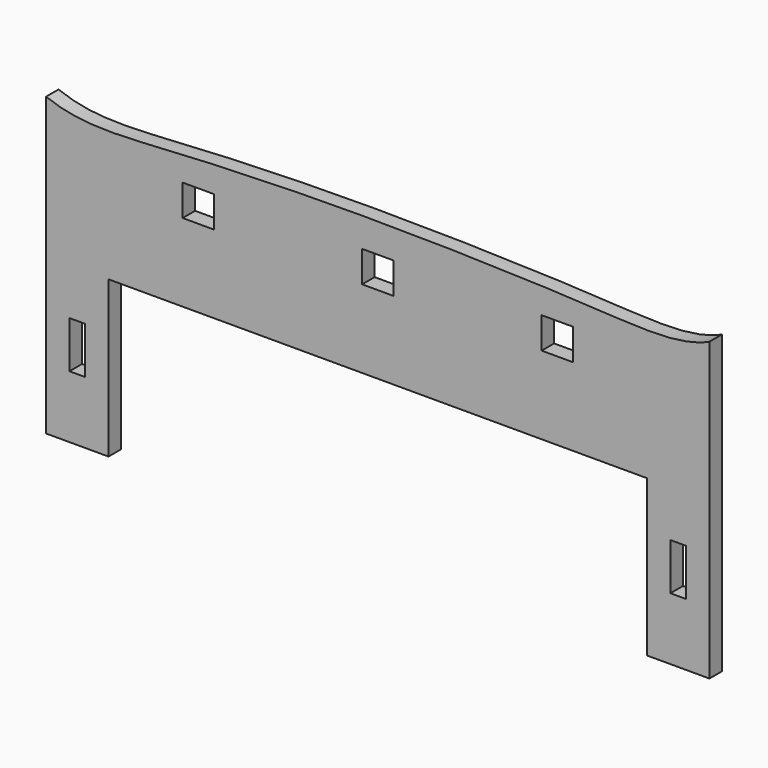
from build123d import *

# Parameters (mm, degrees)
F0_W     = 203.2
F0_H     = 508
F0_W_2   = 50.8
F0_H_2   = 152.4
F0_W_3   = 101.6
F0_H_3   = 101.6
F1_DEPTH = 50.8


with BuildPart() as f1:
    # F0 (on Front) → F1 (new body)
    with BuildSketch(Plane.XZ):
        with Locations((-977.9, -482.6)):
            Rectangle(F0_W, F0_H)
        with Locations((-977.9, -457.2)):
            Rectangle(F0_W_2, F0_H_2, mode=Mode.SUBTRACT)
        with Locations((977.9, -482.6)):
            Rectangle(F0_W, F0_H)
        with Locations((977.9, -457.2)):
            Rectangle(F0_W_2, F0_H_2, mode=Mode.SUBTRACT)
        with BuildLine():
            add(Edge.make_bspline(
                [(-1079.5, 228.6), (-968.1757741692, 184.2889311875), (-678.4073473646, 207.95738785), (-90.2517712986, 229.8963509513), (677.7555694837, 210.4033216408), (982.5995632946, 183.4544273595), (1079.5, 228.6)],
                knots=[0, 0, 0, 0, 0.2127647976, 0.4816607486, 0.7872352024, 1, 1, 1, 1], degree=3))
            Line((-1079.5, 228.6), (-1079.5, -228.6))
            Line((-1079.5, -228.6), (-876.3, -228.6))
            Line((-876.3, -228.6), (876.3, -228.6))
            Line((876.3, -228.6), (1079.5, -228.6))
            Line((1079.5, -228.6), (1079.5, 228.6))
        make_face()
        with Locations((-584.2, 76.2)):
            Rectangle(F0_W_3, F0_H_3, mode=Mode.SUBTRACT)
        with Locations((0, 76.2)):
            Rectangle(F0_W_3, F0_H_3, mode=Mode.SUBTRACT)
        with Locations((584.2, 76.2)):
            Rectangle(F0_W_3, F0_H_3, mode=Mode.SUBTRACT)
    extrude(amount=F1_DEPTH)


solid = f1.part
